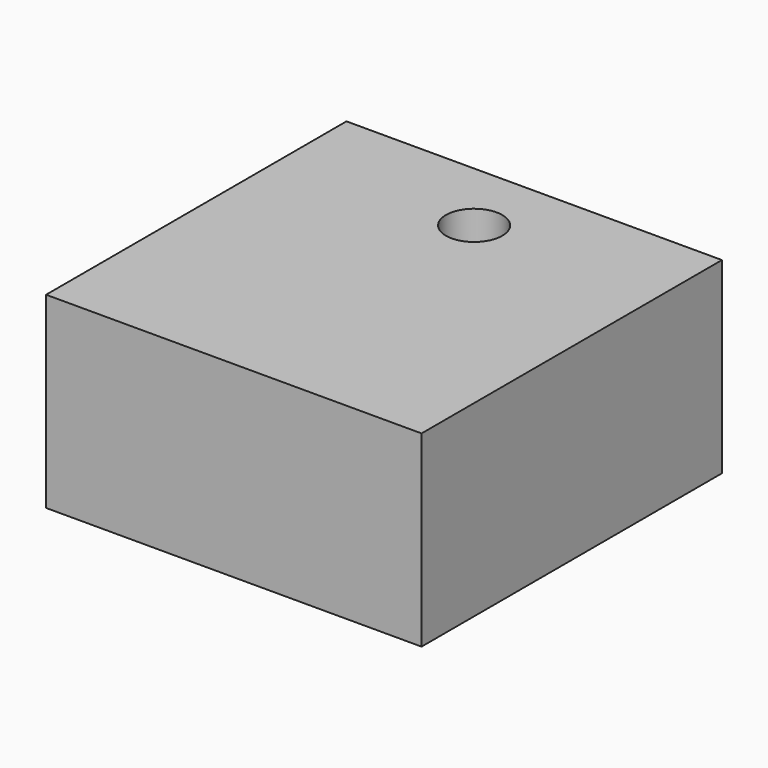
from build123d import *

# Parameters (mm, degrees)
F0_W     = 127
F0_H     = 63.5
F1_DEPTH = 127
F3_D     = 19.05
F4_R     = 9.525
F5_DEPTH = 12.7
F7_D     = 19.05
F7_DEPTH = 12.7
F7_TIP   = 5.7231973962


with BuildPart() as f1:
    # F0 (on Front) → F1 (new body)
    with BuildSketch(Plane.XZ):
        with Locations((-63.5, 31.75)):
            Rectangle(F0_W, F0_H)
    extrude(amount=F1_DEPTH)

    # F3 (through all)
    with Locations(Plane(origin=(0, 0, 0), x_dir=(1, 0, 0), z_dir=(0, 0, -1))):
        with Locations((-63.5, 25.4)):
            Hole(F3_D / 2)

    # F4 (on face) → F5 (join)
    with BuildSketch(Plane(origin=(0, 0, 0), x_dir=(1, 0, 0), z_dir=(0, 0, -1))):
        with Locations((-63.5, 88.9)):
            Circle(F4_R)
    extrude(amount=F5_DEPTH)

    # F7
    with Locations(Plane(origin=(0, 0, 0), x_dir=(-1, 0, 0), z_dir=(0, 1, 0))):
        with Locations((63.5, 25.4)):
            Hole(F7_D / 2, depth=F7_DEPTH)
            with Locations((0, 0, -(F7_DEPTH + F7_TIP / 2))):  # 118° drill point
                Cone(0, F7_D / 2, F7_TIP, mode=Mode.SUBTRACT)


solid = f1.part
